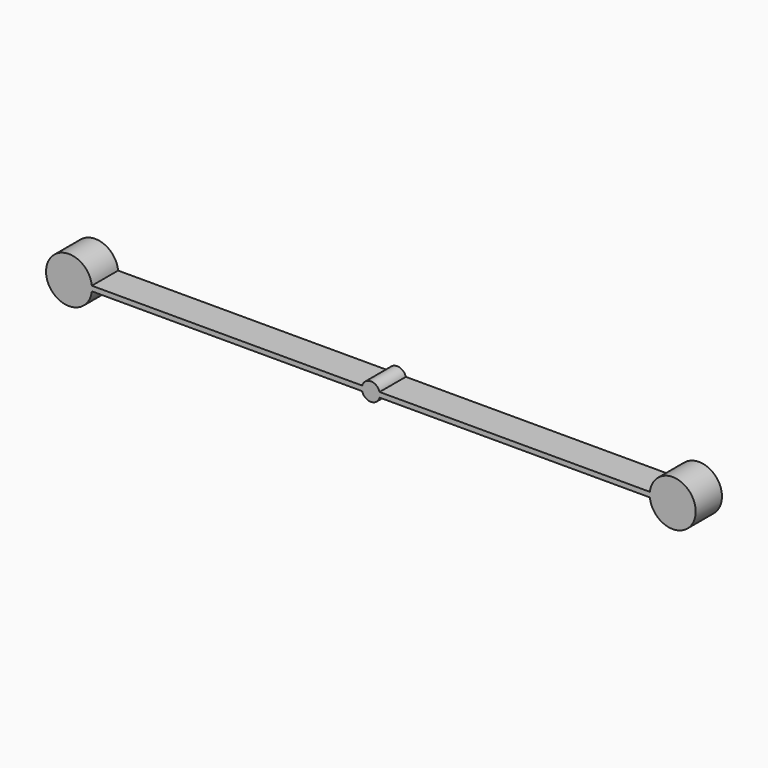
from build123d import *

# Parameters (mm, degrees)
F1_DEPTH = 100


with BuildPart() as f1:
    # F0 (on Front) → F1 (new body)
    with BuildSketch(Plane.XZ):
        with BuildLine():
            Line((-26.529719, 7.5), (-850.402945, 7.5))
            ThreePointArc((-850.402945, 7.5), (-990, 0), (-850.402945, -7.5))
            Line((-850.402945, -7.5), (-26.529719, -7.5))
            ThreePointArc((-26.529719, -7.5), (0, -27.569476), (26.529719, -7.5))
            Line((26.529719, -7.5), (850.402945, -7.5))
            ThreePointArc((850.402945, -7.5), (990, 0), (850.402945, 7.5))
            Line((850.402945, 7.5), (26.529719, 7.5))
            ThreePointArc((26.529719, 7.5), (0, 27.569476), (-26.529719, 7.5))
        make_face()
        with BuildLine():
            Line((-26.529719, 7.5), (-850.402945, 7.5))
            ThreePointArc((-850.402945, 7.5), (-990, 0), (-850.402945, -7.5))
            Line((-850.402945, -7.5), (-26.529719, -7.5))
            ThreePointArc((-26.529719, -7.5), (0, -27.569476), (26.529719, -7.5))
            Line((26.529719, -7.5), (850.402945, -7.5))
            ThreePointArc((850.402945, -7.5), (990, 0), (850.402945, 7.5))
            Line((850.402945, 7.5), (26.529719, 7.5))
            ThreePointArc((26.529719, 7.5), (0, 27.569476), (-26.529719, 7.5))
        make_face()
    extrude(amount=F1_DEPTH)


solid = f1.part
